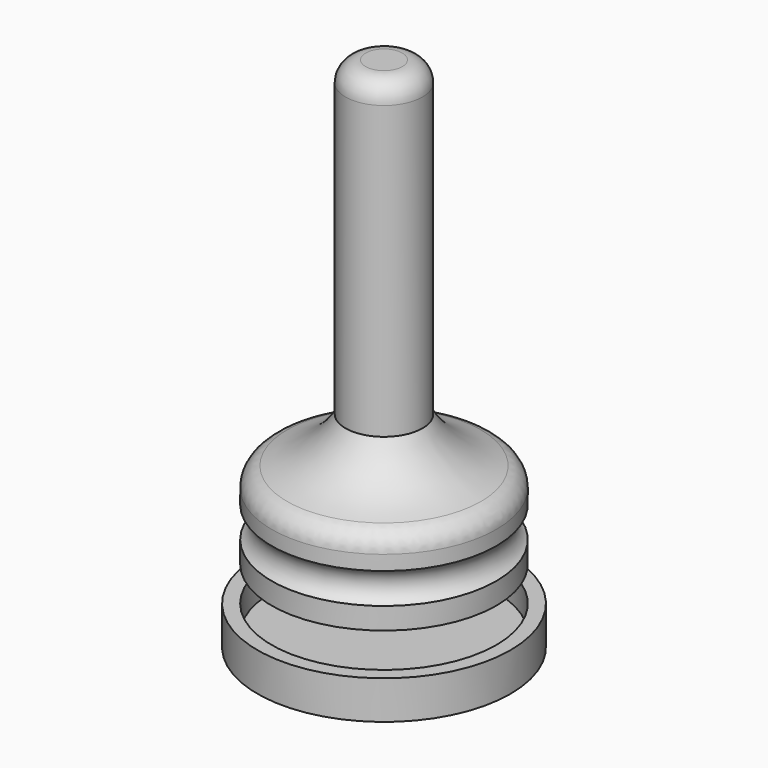
from build123d import *

# Parameters (mm, degrees)
F3_R = 5
F4_R = 5
F2_R = 4.453518


with BuildPart() as f1:
    # F0 (on Front) → F1 (revolve)
    with BuildSketch(Plane.XZ):
        with BuildLine():
            Line((0, 51.035111), (0, -58.964889))
            Line((0, -58.964889), (27.825, -58.964889))
            Line((27.825, -58.964889), (27.825, -38.071028))
            ThreePointArc((27.825, -38.071028), (17.150476, -34.509568), (9.54287, -26.217778))
            Line((9.54287, -26.217778), (9.54287, 51.035111))
            Line((9.54287, 51.035111), (0, 51.035111))
        make_face()
        Polygon((27.835, -74.199751), (0, -74.199751), (0, -77.05725), (31.337254, -77.05725), (31.337254, -67.532249), (27.835, -67.532249), align=None)
    revolve(axis=Axis((0, 0, -3.964889), (0, 0, -1)))

    # F3
    f3_edges = [f1.edges().sort_by_distance(p)[0] for p in [
        (-27.825, 0, -38.071028),
    ]]
    fillet(f3_edges, radius=F3_R)

    # F4
    f4_edges = [f1.edges().sort_by_distance(p)[0] for p in [
        (-9.54287, 0, 51.035111),
    ]]
    fillet(f4_edges, radius=F4_R)

    # F2 (on Front) → F5 (revolve, cut)
    with BuildSketch(Plane.XZ):
        with Locations((30.126341, -49.781982)):
            Circle(F2_R)
    revolve(axis=Axis((0, 0, -58.964889), (0, 0, 1)), mode=Mode.SUBTRACT)


solid = f1.part
